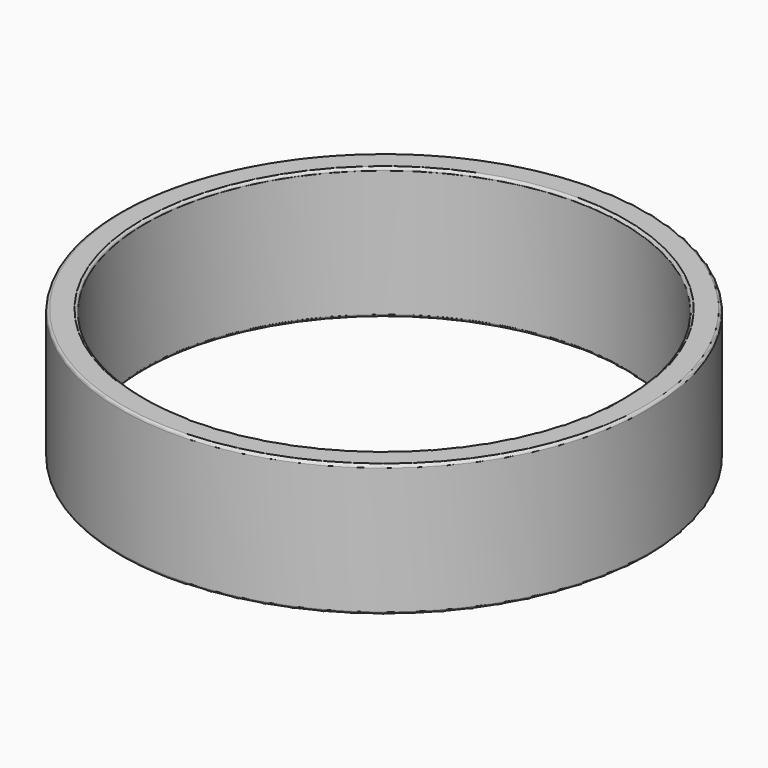
from build123d import *

# Parameters (mm, degrees)
F0_R     = 20.32
F1_DEPTH = 10.16
F2_R     = 18.415
F3_DEPTH = 12.7
F4_R     = 0.2032


with BuildPart() as f1:
    # F0 (on Top) → F1 (new body)
    with BuildSketch(Plane.XY):
        Circle(F0_R)
    extrude(amount=F1_DEPTH)

    # F2 (on Top) → F3 (cut, symmetric)
    with BuildSketch(Plane.XY):
        Circle(F2_R)
    extrude(amount=F3_DEPTH, both=True, mode=Mode.SUBTRACT)

    # F4
    f4_edges = [f1.edges().sort_by_distance(p)[0] for p in [
        (-20.32, 0, 10.16),
        (-18.415, 0, 10.16),
        (-20.32, 0, 0),
        (-18.415, 0, 0),
    ]]
    fillet(f4_edges, radius=F4_R)


solid = f1.part
